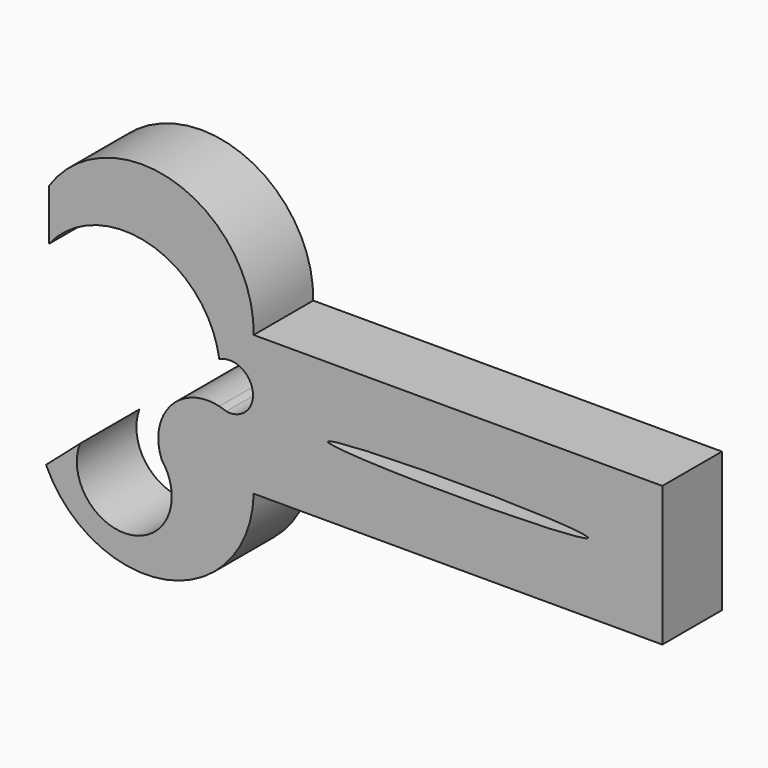
from build123d import *

# Parameters (mm, degrees)
F1_DEPTH = 25.4
F2_DEPTH = 25.4


with BuildPart() as f1:
    # F0 (on Front) → F1 (new body)
    with BuildSketch(Plane.XZ):
        with BuildLine():
            ThreePointArc((-79.07628, -2.162153), (-69.954285, -11.07424), (-69.699585, -23.824582))
            Line((-69.699585, -23.824582), (69.699585, -23.824582))
            Line((69.699585, -23.824582), (69.699585, 23.824582))
            Line((69.699585, 23.824582), (-69.699585, 23.824582))
            ThreePointArc((-69.699585, 23.824582), (-96.396248, 60.916698), (-139.550954, 45.876477))
            Line((-139.550954, 45.876477), (-139.550954, 28.447155))
            ThreePointArc((-139.550954, 28.447155), (-105.341414, 39.62166), (-81.424735, 12.730124))
            ThreePointArc((-81.424735, 12.730124), (-70.026474, 6.896277), (-79.07628, -2.162153))
        make_face()
        with BuildLine():
            add(Edge.make_bspline(
                [(-44.354282, 0), (-44.354282, -3.645891), (22.177141, -1.822945), (88.708565, 0), (22.177141, 1.822945), (-44.354282, 3.645891), (-44.354282, 0)],
                knots=[0, 0, 0, 2.094395, 2.094395, 4.18879, 4.18879, 6.283185, 6.283185, 6.283185], degree=2, weights=[1, 0.5, 1, 0.5, 1, 0.5, 1]))
        make_face(mode=Mode.SUBTRACT)
        with BuildLine():
            ThreePointArc((-140.511721, -38.190361), (-99.355258, -59.352456), (-69.699585, -23.824582))
            ThreePointArc((-69.699585, -23.824582), (-69.954285, -11.07424), (-79.07628, -2.162153))
            ThreePointArc((-79.07628, -2.162153), (-80.280173, -1.875618), (-81.424735, -1.405049))
            ThreePointArc((-81.424735, -1.405049), (-98.035297, -6.638757), (-101.120397, -23.778902))
            ThreePointArc((-101.120397, -23.778902), (-111.346881, -49.814697), (-128.982559, -28.10234))
            Line((-128.982559, -28.10234), (-140.511721, -38.190361))
        make_face()
        with BuildLine():
            ThreePointArc((-81.424735, -1.405049), (-80.280173, -1.875618), (-79.07628, -2.162153))
            ThreePointArc((-79.07628, -2.162153), (-80.236616, -1.740509), (-81.424735, -1.405049))
        make_face()
    extrude(amount=F1_DEPTH)

    # F0 (on Front) → F2 (join)
    with BuildSketch(Plane.XZ):
        with BuildLine():
            ThreePointArc((-79.07628, -2.162153), (-69.954285, -11.07424), (-69.699585, -23.824582))
            Line((-69.699585, -23.824582), (69.699585, -23.824582))
            Line((69.699585, -23.824582), (69.699585, 23.824582))
            Line((69.699585, 23.824582), (-69.699585, 23.824582))
            ThreePointArc((-69.699585, 23.824582), (-96.396248, 60.916698), (-139.550954, 45.876477))
            Line((-139.550954, 45.876477), (-139.550954, 28.447155))
            ThreePointArc((-139.550954, 28.447155), (-105.341414, 39.62166), (-81.424735, 12.730124))
            ThreePointArc((-81.424735, 12.730124), (-70.026474, 6.896277), (-79.07628, -2.162153))
        make_face()
        with BuildLine():
            add(Edge.make_bspline(
                [(-44.354282, 0), (-44.354282, -3.645891), (22.177141, -1.822945), (88.708565, 0), (22.177141, 1.822945), (-44.354282, 3.645891), (-44.354282, 0)],
                knots=[0, 0, 0, 2.094395, 2.094395, 4.18879, 4.18879, 6.283185, 6.283185, 6.283185], degree=2, weights=[1, 0.5, 1, 0.5, 1, 0.5, 1]))
        make_face(mode=Mode.SUBTRACT)
        with BuildLine():
            ThreePointArc((-140.511721, -38.190361), (-99.355258, -59.352456), (-69.699585, -23.824582))
            ThreePointArc((-69.699585, -23.824582), (-69.954285, -11.07424), (-79.07628, -2.162153))
            ThreePointArc((-79.07628, -2.162153), (-80.280173, -1.875618), (-81.424735, -1.405049))
            ThreePointArc((-81.424735, -1.405049), (-98.035297, -6.638757), (-101.120397, -23.778902))
            ThreePointArc((-101.120397, -23.778902), (-111.346881, -49.814697), (-128.982559, -28.10234))
            Line((-128.982559, -28.10234), (-140.511721, -38.190361))
        make_face()
        with BuildLine():
            ThreePointArc((-81.424735, -1.405049), (-80.280173, -1.875618), (-79.07628, -2.162153))
            ThreePointArc((-79.07628, -2.162153), (-80.236616, -1.740509), (-81.424735, -1.405049))
        make_face()
    extrude(amount=F2_DEPTH)


solid = f1.part
